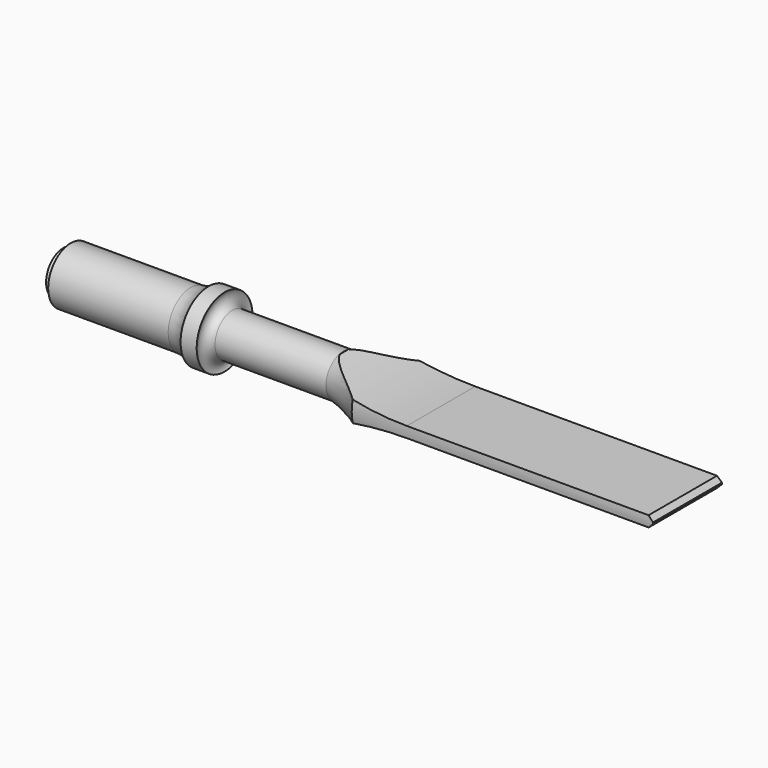
from build123d import *

# Parameters (mm, degrees)
F3_DEPTH = 25.4
F4_DEPTH = 25.4


with BuildPart() as f1:
    # F0 (on Front) → F1 (revolve)
    with BuildSketch(Plane.XZ):
        with BuildLine():
            Line((-95.25, -6.372012), (-95.25, -12.722012))
            Line((-95.25, -12.722012), (88.9, -12.722012))
            Line((88.9, -12.722012), (88.9, -0.022012))
            Line((88.9, -0.022012), (0, -0.022012))
            ThreePointArc((0, -0.022012), (-5.990472, -3.916067), (-12.7, -6.372012))
            Line((-12.7, -6.372012), (-45.3898, -6.372012))
            ThreePointArc((-45.3898, -6.372012), (-47.67075, -5.047272), (-47.6504, -2.409612))
            Line((-47.6504, -2.409612), (-52.4002, -2.409612))
            ThreePointArc((-52.4002, -2.409612), (-54.839819, -3.877688), (-57.640804, -4.389037))
            Line((-57.640804, -4.389037), (-93.039957, -4.389037))
            ThreePointArc((-93.039957, -4.389037), (-92.897345, -6.771022), (-95.25, -6.372012))
        make_face()
    revolve(axis=Axis((-3.175, 0, -12.722012), (1, 0, 0)))

    # F2 (on Front) → F3 (cut)
    with BuildSketch(Plane.XZ):
        with BuildLine():
            ThreePointArc((-12.482816, -6.482415), (1.656656, -10.036727), (16.186922, -11.232215))
            Line((16.186922, -11.232215), (87.516984, -11.232215))
            Line((87.516984, -11.232215), (89.117184, -12.832415))
            Line((89.117184, -12.832415), (96.563645, 18.124769))
            Line((96.563645, 18.124769), (7.196714, 21.508439))
            Line((7.196714, 21.508439), (-12.482816, -6.482415))
        make_face()
        with BuildLine():
            Line((96.563645, -43.789599), (89.117184, -12.832415))
            Line((89.117184, -12.832415), (87.516984, -14.432615))
            Line((87.516984, -14.432615), (16.186922, -14.432615))
            ThreePointArc((16.186922, -14.432615), (1.656656, -15.628103), (-12.482816, -19.182415))
            Line((-12.482816, -19.182415), (7.196714, -47.173269))
            Line((7.196714, -47.173269), (96.563645, -43.789599))
        make_face()
    extrude(amount=-F3_DEPTH, mode=Mode.SUBTRACT)

    # F2 (on Front) → F4 (cut)
    with BuildSketch(Plane.XZ):
        with BuildLine():
            ThreePointArc((-12.482816, -6.482415), (1.656656, -10.036727), (16.186922, -11.232215))
            Line((16.186922, -11.232215), (87.516984, -11.232215))
            Line((87.516984, -11.232215), (89.117184, -12.832415))
            Line((89.117184, -12.832415), (96.563645, 18.124769))
            Line((96.563645, 18.124769), (7.196714, 21.508439))
            Line((7.196714, 21.508439), (-12.482816, -6.482415))
        make_face()
        with BuildLine():
            Line((96.563645, -43.789599), (89.117184, -12.832415))
            Line((89.117184, -12.832415), (87.516984, -14.432615))
            Line((87.516984, -14.432615), (16.186922, -14.432615))
            ThreePointArc((16.186922, -14.432615), (1.656656, -15.628103), (-12.482816, -19.182415))
            Line((-12.482816, -19.182415), (7.196714, -47.173269))
            Line((7.196714, -47.173269), (96.563645, -43.789599))
        make_face()
    extrude(amount=F4_DEPTH, mode=Mode.SUBTRACT)


solid = f1.part
